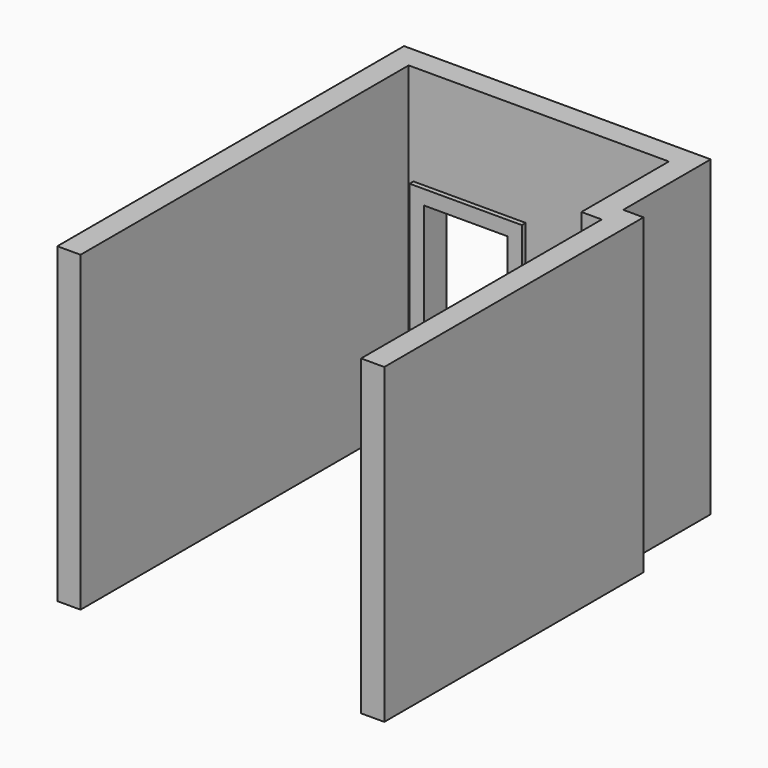
from build123d import *

# Parameters (mm, degrees)
F1_DEPTH = 3230
F3_DEPTH = 50
F4_W     = 860
F4_H     = 2040
F5_DEPTH = 300


with BuildPart() as f1:
    # F0 (on Top) → F1 (new body)
    with BuildSketch(Plane.XY):
        Polygon((-3140, 240), (-3140, 4240), (-450, 4240), (-450, 3110), (-240, 3110), (-240, 240), (-240, 0), (0, 0), (0, 3350), (-210, 3350), (-210, 4480), (-3380, 4480), (-3380, 0), (-3140, 0), align=None)
    extrude(amount=F1_DEPTH)

    # F2 (on face) → F3 (join)
    with BuildSketch(Plane.XZ.offset(-4240)):
        Polygon((-1930, 2190), (-3090, 2190), (-3090, 0), (-2940, 0), (-2940, 2040), (-2080, 2040), (-2080, 0), (-1930, 0), align=None)
    extrude(amount=F3_DEPTH)

    # F4 (on face) → F5 (cut)
    with BuildSketch(Plane.XZ.offset(-4240)):
        with Locations((-2510, 1020)):
            Rectangle(F4_W, F4_H)
    extrude(amount=-F5_DEPTH, mode=Mode.SUBTRACT)


solid = f1.part
